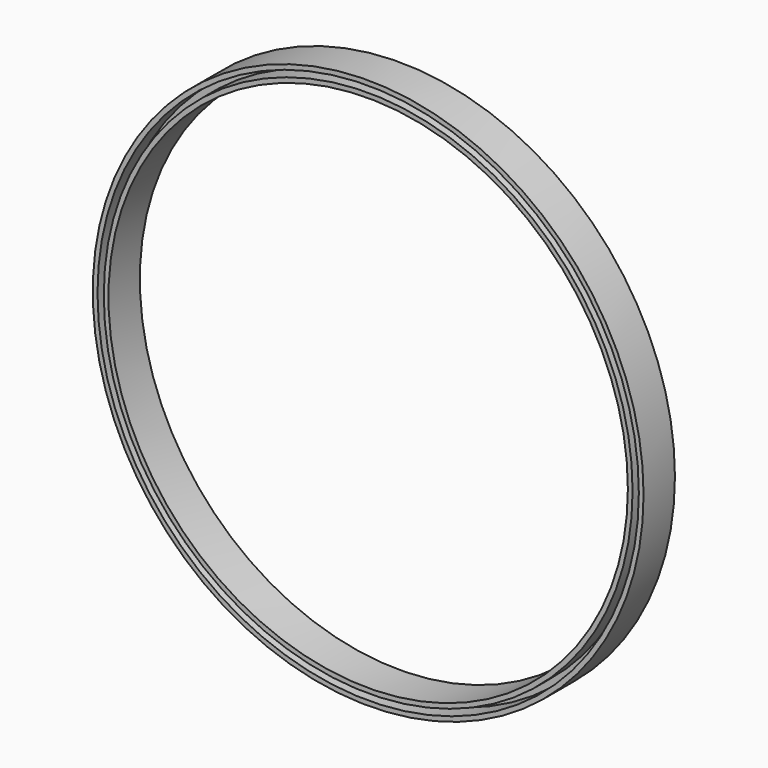
from build123d import *

# Parameters (mm, degrees)
F0_R     = 35.1
F0_R_2   = 34.5
F1_DEPTH = 5
F0_R_3   = 33.6999967694
F0_R_4   = 33.0999977887
F3_R     = 34.5
F3_R_2   = 33.6999967694
F4_DEPTH = 0.075


with BuildPart() as f1:
    # F0 (on Front) → F1 (new body)
    with BuildSketch(Plane.XZ):
        Circle(F0_R)
        Circle(F0_R_2, mode=Mode.SUBTRACT)
    extrude(amount=F1_DEPTH)



with BuildPart() as f1b:
    # F0 (on Front) → F1, piece 2 (new body)
    with BuildSketch(Plane.XZ):
        Circle(F0_R_3)
        Circle(F0_R_4, mode=Mode.SUBTRACT)
    extrude(amount=F1_DEPTH)


with BuildPart() as f1_1:
    add(f1.part)

    add(f1b.part)  # F4 merges F1b
    # F3 (on offset) → F4 (join, symmetric)
    with BuildSketch(Plane.XZ.offset(2.5)):
        Circle(F3_R)
        Circle(F3_R_2, mode=Mode.SUBTRACT)
    extrude(amount=F4_DEPTH, both=True)


solid = f1_1.part
